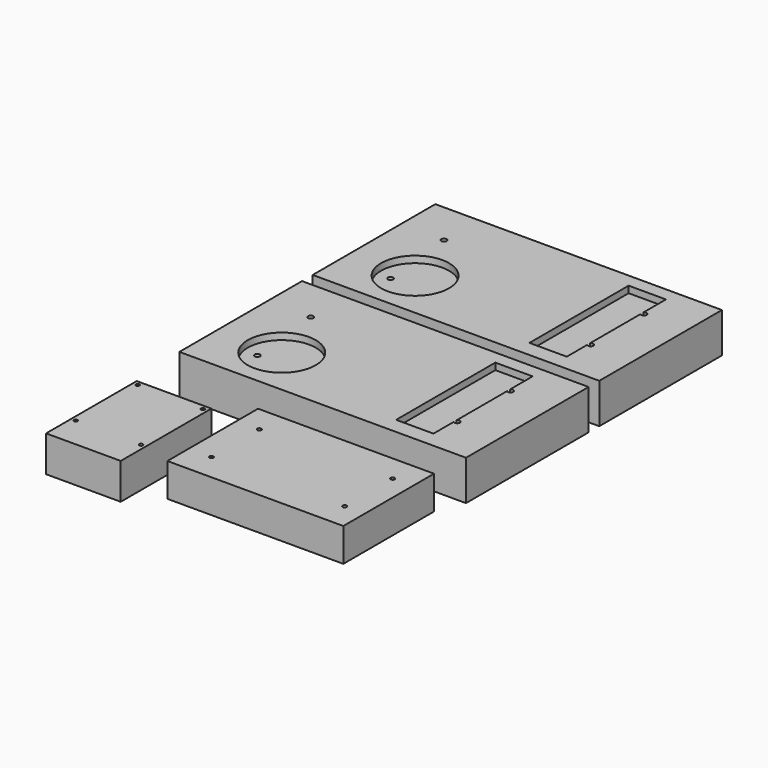
from build123d import *

# Parameters (mm, degrees)
SKETCH_W        = 56
SKETCH_H        = 85
SKETCH_R        = 1.375
PAD_DEPTH       = 27
SKETCH001_W     = 132
SKETCH001_H     = 85
SKETCH001_R     = 1.5
PAD001_DEPTH    = 25
SKETCH002_W     = 215
SKETCH002_H     = 115
SKETCH002_R     = 2
PAD002_DEPTH    = 30
SKETCH003_R     = 25.5
SKETCH003_W     = 28
SKETCH003_H     = 93
POCKET_DEPTH    = 5
SKETCH004_W     = 215
SKETCH004_H     = 115
SKETCH004_R     = 2
PAD003_DEPTH    = 30
SKETCH005_R     = 25.5
SKETCH005_W     = 28
SKETCH005_H     = 93
POCKET001_DEPTH = 5


with BuildPart() as pi3b:
    # Sketch → Pad (new body)
    with BuildSketch(Plane.XY):
        with Locations((28, 42.5)):
            Rectangle(SKETCH_W, SKETCH_H)
        with Locations((3.5, 81.5)):
            Circle(SKETCH_R, mode=Mode.SUBTRACT)
        with Locations((52.5, 81.5)):
            Circle(SKETCH_R, mode=Mode.SUBTRACT)
        with Locations((3.5, 23.5)):
            Circle(SKETCH_R, mode=Mode.SUBTRACT)
        with Locations((52.5, 23.5)):
            Circle(SKETCH_R, mode=Mode.SUBTRACT)
    extrude(amount=PAD_DEPTH)


with BuildPart() as driverboard:
    # Sketch001 → Pad001 (new body)
    with BuildSketch(Plane.XY):
        with Locations((141, 62.5)):
            Rectangle(SKETCH001_W, SKETCH001_H)
        with Locations((92, 85)):
            Circle(SKETCH001_R, mode=Mode.SUBTRACT)
        with Locations((192, 85)):
            Circle(SKETCH001_R, mode=Mode.SUBTRACT)
        with Locations((92, 40)):
            Circle(SKETCH001_R, mode=Mode.SUBTRACT)
        with Locations((192, 40)):
            Circle(SKETCH001_R, mode=Mode.SUBTRACT)
    extrude(amount=PAD001_DEPTH)


with BuildPart() as obj1:
    # Sketch002 → Pad002 (new body)
    with BuildSketch(Plane.XY):
        with Locations((107.5, 182.5)):
            Rectangle(SKETCH002_W, SKETCH002_H)
        with Locations((32.5, 207.5)):
            Circle(SKETCH002_R, mode=Mode.SUBTRACT)
        with Locations((182.5, 207.5)):
            Circle(SKETCH002_R, mode=Mode.SUBTRACT)
        with Locations((182.5, 157.5)):
            Circle(SKETCH002_R, mode=Mode.SUBTRACT)
        with Locations((32.5, 157.5)):
            Circle(SKETCH002_R, mode=Mode.SUBTRACT)
    extrude(amount=PAD002_DEPTH)

    # Sketch003 (on Face10 of Pad002) → Pocket (cut)
    with BuildSketch(Plane.XY.offset(30)):
        with Locations((47.45, 161.7)):
            Circle(SKETCH003_R)
        with Locations((167, 183.5)):
            Rectangle(SKETCH003_W, SKETCH003_H)
    extrude(amount=-POCKET_DEPTH, mode=Mode.SUBTRACT)


with BuildPart() as obj2:
    # Sketch004 → Pad003 (new body)
    with BuildSketch(Plane.XY):
        with Locations((107.5, 307.5)):
            Rectangle(SKETCH004_W, SKETCH004_H)
        with Locations((32.5, 332.5)):
            Circle(SKETCH004_R, mode=Mode.SUBTRACT)
        with Locations((182.5, 332.5)):
            Circle(SKETCH004_R, mode=Mode.SUBTRACT)
        with Locations((182.5, 282.5)):
            Circle(SKETCH004_R, mode=Mode.SUBTRACT)
        with Locations((32.5, 282.5)):
            Circle(SKETCH004_R, mode=Mode.SUBTRACT)
    extrude(amount=PAD003_DEPTH)

    # Sketch005 (on Face10 of Pad003) → Pocket001 (cut)
    with BuildSketch(Plane.XY.offset(30)):
        with Locations((47.45, 286.7)):
            Circle(SKETCH005_R)
        with Locations((167, 308.5)):
            Rectangle(SKETCH005_W, SKETCH005_H)
    extrude(amount=-POCKET001_DEPTH, mode=Mode.SUBTRACT)


solid = Compound([pi3b.part, driverboard.part, obj1.part, obj2.part])
